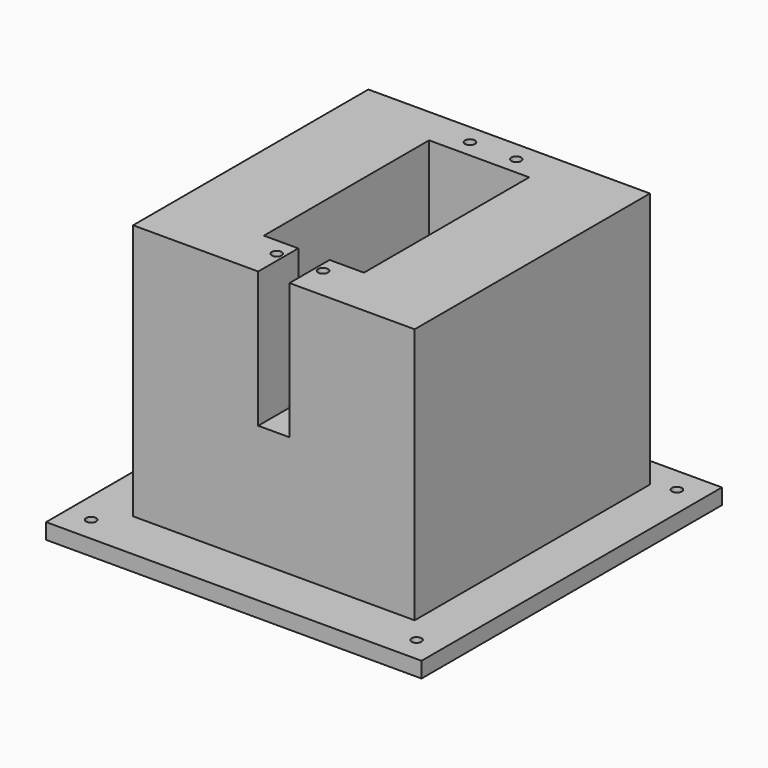
from build123d import *

# Parameters (mm, degrees)
F0_W     = 76.2
F0_H     = 76.2
F1_DEPTH = 3.175
F2_R     = 1
F3_DEPTH = 25.4
F4_W     = 57.15
F4_H     = 59.69
F5_DEPTH = 52
F6_R     = 1.0033
F7_DEPTH = 27.559


with BuildPart() as f1:
    # F0 (on Top) → F1 (new body)
    with BuildSketch(Plane.XY):
        Rectangle(F0_W, F0_H)
    extrude(amount=F1_DEPTH)

    # F2 (on face) → F3 (cut)
    with BuildSketch(Plane.XY.offset(3.175)):
        with Locations((-33.02, 33.02)):
            Circle(F2_R)
        with Locations((-33.02, -33.02)):
            Circle(F2_R)
        with Locations((33.02, 33.02)):
            Circle(F2_R)
        with Locations((33.02, -33.02)):
            Circle(F2_R)
    extrude(amount=-F3_DEPTH, mode=Mode.SUBTRACT)

    # F4 (on face) → F5 (join)
    with BuildSketch(Plane.XY.offset(3.175)):
        with Locations((0, 1.905)):
            Rectangle(F4_W, F4_H)
    extrude(amount=F5_DEPTH)

    # F6 (on face) → F7 (cut)
    with BuildSketch(Plane.XY.offset(55.175)):
        Polygon((10.16, -17.78), (10.16, 24.13), (-10.16, 24.13), (-10.16, -17.78), (-3.175, -17.78), (-3.175, -27.94), (3.175, -27.94), (3.175, -17.78), align=None)
        with Locations((-4.699, 27.686)):
            Circle(F6_R)
        with Locations((4.699, 27.686)):
            Circle(F6_R)
        with Locations((-4.699, -21.336)):
            Circle(F6_R)
        with Locations((4.699, -21.336)):
            Circle(F6_R)
    extrude(amount=-F7_DEPTH, mode=Mode.SUBTRACT)


solid = f1.part
